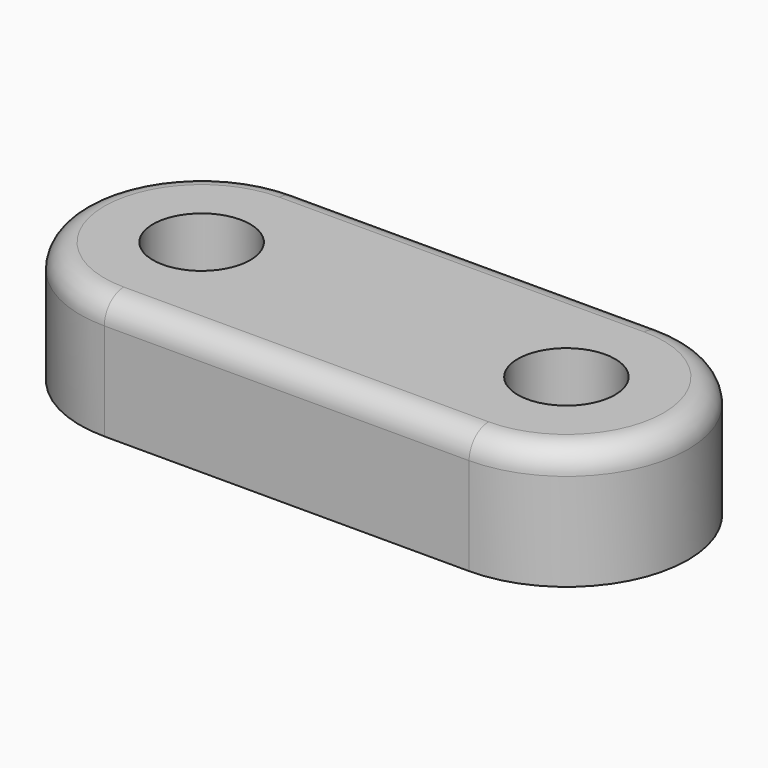
from build123d import *

# Parameters (mm, degrees)
SKETCH_R     = 1.5
PAD_DEPTH    = 5
SKETCH001_R  = 2
POCKET_DEPTH = 4
FILLET_R     = 1


with BuildPart() as part:
    # Sketch → Pad (new body)
    with BuildSketch(Plane.XY):
        with BuildLine():
            ThreePointArc((0, 5), (-5, 0), (0, -5))
            Line((0, -5), (15, -5))
            ThreePointArc((15, -5), (20, 0), (15, 5))
            Line((0, 5), (15, 5))
        make_face()
        Circle(SKETCH_R, mode=Mode.SUBTRACT)
        with Locations((15, 0)):
            Circle(SKETCH_R, mode=Mode.SUBTRACT)
    extrude(amount=PAD_DEPTH)

    # Sketch001 (on Face8 of Pad) → Pocket (cut)
    with BuildSketch(Plane.XY.offset(5)):
        Circle(SKETCH001_R)
        with Locations((15, 0)):
            Circle(SKETCH001_R)
    extrude(amount=-POCKET_DEPTH, mode=Mode.SUBTRACT)

    # Fillet
    fillet_edges = [part.edges().sort_by_distance(p)[0] for p in [
        (7.5, -5, 5),
    ]]
    fillet(fillet_edges, radius=FILLET_R)


solid = part.part
